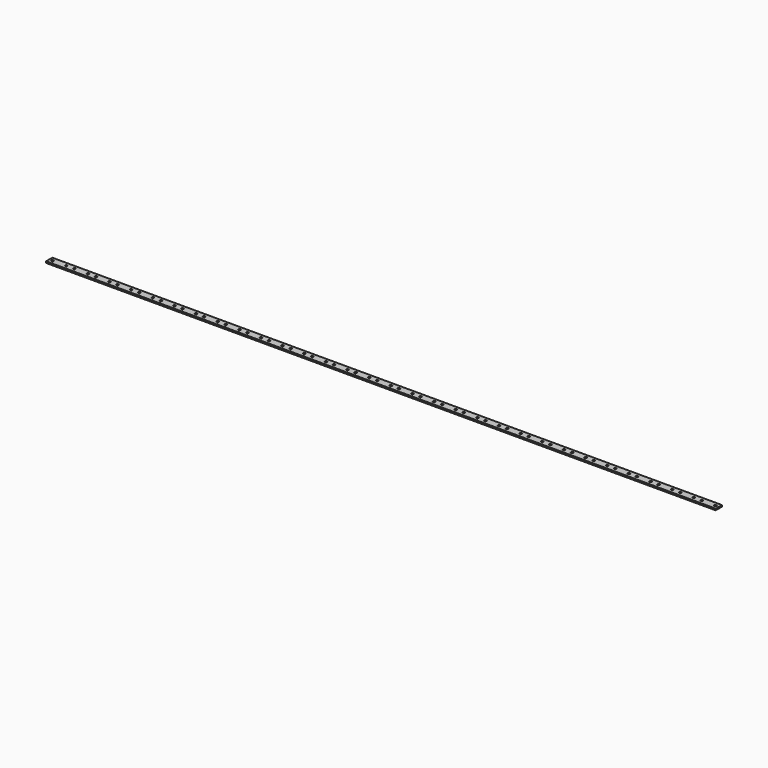
from build123d import *

# Parameters (mm, degrees)
F0_W     = 1375.41
F0_H     = 16.002
F0_R     = 2.286
F1_DEPTH = 3.175


with BuildPart() as f1:
    # F0 (on Top) → F1 (new body)
    with BuildSketch(Plane.XY):
        Rectangle(F0_W, F0_H)
        with Locations((-680.593, 0)):
            Circle(F0_R, mode=Mode.SUBTRACT)
        with Locations((-652.653, 0)):
            Circle(F0_R, mode=Mode.SUBTRACT)
        with Locations((-636.143, 0)):
            Circle(F0_R, mode=Mode.SUBTRACT)
        with Locations((-608.203, 0)):
            Circle(F0_R, mode=Mode.SUBTRACT)
        with Locations((-591.693, 0)):
            Circle(F0_R, mode=Mode.SUBTRACT)
        with Locations((-563.753, 0)):
            Circle(F0_R, mode=Mode.SUBTRACT)
        with Locations((-547.243, 0)):
            Circle(F0_R, mode=Mode.SUBTRACT)
        with Locations((-519.303, 0)):
            Circle(F0_R, mode=Mode.SUBTRACT)
        with Locations((-502.793, 0)):
            Circle(F0_R, mode=Mode.SUBTRACT)
        with Locations((-474.853, 0)):
            Circle(F0_R, mode=Mode.SUBTRACT)
        with Locations((-458.343, 0)):
            Circle(F0_R, mode=Mode.SUBTRACT)
        with Locations((-430.403, 0)):
            Circle(F0_R, mode=Mode.SUBTRACT)
        with Locations((-413.893, 0)):
            Circle(F0_R, mode=Mode.SUBTRACT)
        with Locations((-385.953, 0)):
            Circle(F0_R, mode=Mode.SUBTRACT)
        with Locations((-369.443, 0)):
            Circle(F0_R, mode=Mode.SUBTRACT)
        with Locations((-341.503, 0)):
            Circle(F0_R, mode=Mode.SUBTRACT)
        with Locations((-324.993, 0)):
            Circle(F0_R, mode=Mode.SUBTRACT)
        with Locations((-297.053, 0)):
            Circle(F0_R, mode=Mode.SUBTRACT)
        with Locations((-280.543, 0)):
            Circle(F0_R, mode=Mode.SUBTRACT)
        with Locations((-252.603, 0)):
            Circle(F0_R, mode=Mode.SUBTRACT)
        with Locations((-236.093, 0)):
            Circle(F0_R, mode=Mode.SUBTRACT)
        with Locations((-208.153, 0)):
            Circle(F0_R, mode=Mode.SUBTRACT)
        with Locations((-191.643, 0)):
            Circle(F0_R, mode=Mode.SUBTRACT)
        with Locations((-163.703, 0)):
            Circle(F0_R, mode=Mode.SUBTRACT)
        with Locations((-147.193, 0)):
            Circle(F0_R, mode=Mode.SUBTRACT)
        with Locations((-119.253, 0)):
            Circle(F0_R, mode=Mode.SUBTRACT)
        with Locations((-102.743, 0)):
            Circle(F0_R, mode=Mode.SUBTRACT)
        with Locations((-74.803, 0)):
            Circle(F0_R, mode=Mode.SUBTRACT)
        with Locations((-58.293, 0)):
            Circle(F0_R, mode=Mode.SUBTRACT)
        with Locations((-30.353, 0)):
            Circle(F0_R, mode=Mode.SUBTRACT)
        with Locations((-13.843, 0)):
            Circle(F0_R, mode=Mode.SUBTRACT)
        with Locations((14.097, 0)):
            Circle(F0_R, mode=Mode.SUBTRACT)
        with Locations((30.607, 0)):
            Circle(F0_R, mode=Mode.SUBTRACT)
        with Locations((58.547, 0)):
            Circle(F0_R, mode=Mode.SUBTRACT)
        with Locations((75.057, 0)):
            Circle(F0_R, mode=Mode.SUBTRACT)
        with Locations((102.997, 0)):
            Circle(F0_R, mode=Mode.SUBTRACT)
        with Locations((119.507, 0)):
            Circle(F0_R, mode=Mode.SUBTRACT)
        with Locations((147.447, 0)):
            Circle(F0_R, mode=Mode.SUBTRACT)
        with Locations((163.957, 0)):
            Circle(F0_R, mode=Mode.SUBTRACT)
        with Locations((191.897, 0)):
            Circle(F0_R, mode=Mode.SUBTRACT)
        with Locations((208.407, 0)):
            Circle(F0_R, mode=Mode.SUBTRACT)
        with Locations((236.347, 0)):
            Circle(F0_R, mode=Mode.SUBTRACT)
        with Locations((252.857, 0)):
            Circle(F0_R, mode=Mode.SUBTRACT)
        with Locations((280.797, 0)):
            Circle(F0_R, mode=Mode.SUBTRACT)
        with Locations((297.307, 0)):
            Circle(F0_R, mode=Mode.SUBTRACT)
        with Locations((325.247, 0)):
            Circle(F0_R, mode=Mode.SUBTRACT)
        with Locations((341.757, 0)):
            Circle(F0_R, mode=Mode.SUBTRACT)
        with Locations((369.697, 0)):
            Circle(F0_R, mode=Mode.SUBTRACT)
        with Locations((386.207, 0)):
            Circle(F0_R, mode=Mode.SUBTRACT)
        with Locations((414.147, 0)):
            Circle(F0_R, mode=Mode.SUBTRACT)
        with Locations((430.657, 0)):
            Circle(F0_R, mode=Mode.SUBTRACT)
        with Locations((458.597, 0)):
            Circle(F0_R, mode=Mode.SUBTRACT)
        with Locations((475.107, 0)):
            Circle(F0_R, mode=Mode.SUBTRACT)
        with Locations((503.047, 0)):
            Circle(F0_R, mode=Mode.SUBTRACT)
        with Locations((519.557, 0)):
            Circle(F0_R, mode=Mode.SUBTRACT)
        with Locations((547.497, 0)):
            Circle(F0_R, mode=Mode.SUBTRACT)
        with Locations((564.007, 0)):
            Circle(F0_R, mode=Mode.SUBTRACT)
        with Locations((591.947, 0)):
            Circle(F0_R, mode=Mode.SUBTRACT)
        with Locations((608.457, 0)):
            Circle(F0_R, mode=Mode.SUBTRACT)
        with Locations((636.397, 0)):
            Circle(F0_R, mode=Mode.SUBTRACT)
        with Locations((652.907, 0)):
            Circle(F0_R, mode=Mode.SUBTRACT)
        with Locations((680.847, 0)):
            Circle(F0_R, mode=Mode.SUBTRACT)
    extrude(amount=F1_DEPTH)


solid = f1.part
